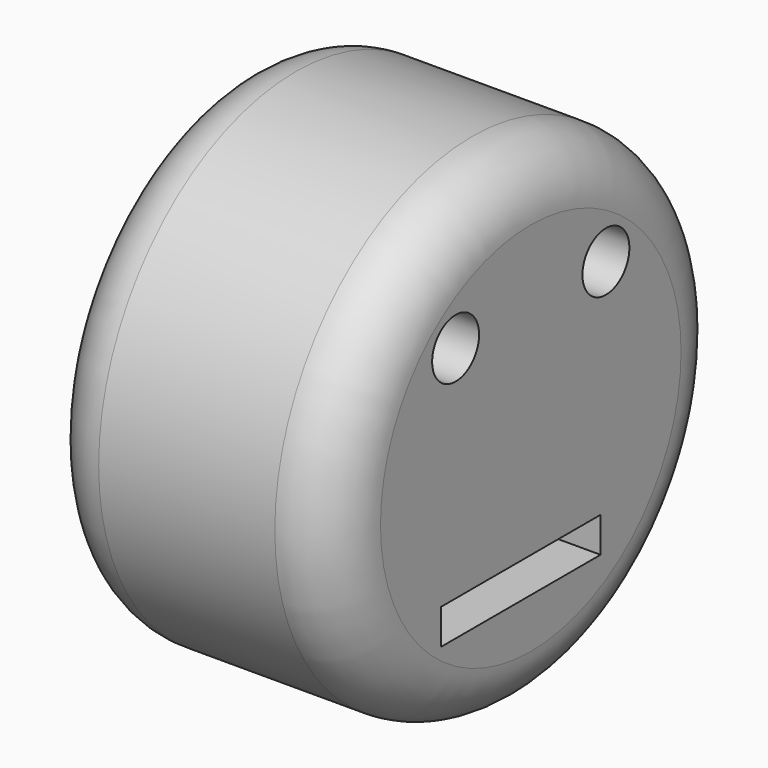
from build123d import *

# Parameters (mm, degrees)
F0_R     = 21
F0_W     = 17
F0_H     = 3
F0_R_2   = 2.5
F1_DEPTH = 25
F2_R     = 5


with BuildPart() as f1:
    # F0 (on Right) → F1 (new body)
    with BuildSketch(Plane.YZ):
        Circle(F0_R)
        with Locations((-1.069418, -10.260232)):
            Rectangle(F0_W, F0_H, mode=Mode.SUBTRACT)
        with Locations((-8, 10)):
            Circle(F0_R_2, mode=Mode.SUBTRACT)
        with Locations((8, 10)):
            Circle(F0_R_2, mode=Mode.SUBTRACT)
        Circle(F0_R)
        with Locations((-1.069418, -10.260232)):
            Rectangle(F0_W, F0_H, mode=Mode.SUBTRACT)
        with Locations((-8, 10)):
            Circle(F0_R_2, mode=Mode.SUBTRACT)
        with Locations((8, 10)):
            Circle(F0_R_2, mode=Mode.SUBTRACT)
    extrude(amount=F1_DEPTH)

    # F2
    f2_edges = [f1.edges().sort_by_distance(p)[0] for p in [
        (25, -21, 0),
        (0, -21, 0),
    ]]
    fillet(f2_edges, radius=F2_R)


solid = f1.part
